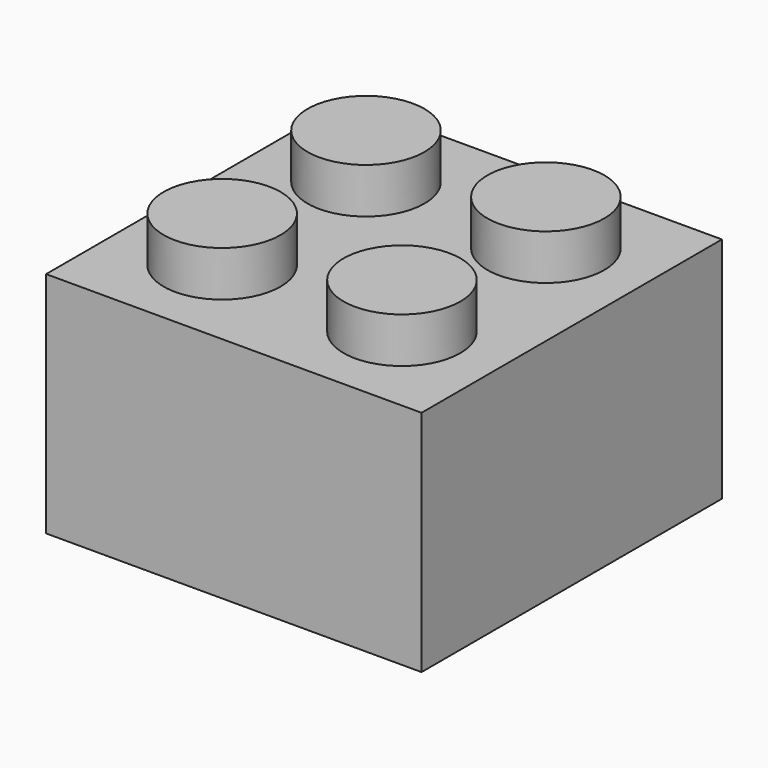
from build123d import *

# Parameters (mm, degrees)
F0_W      = 15.748
F0_H      = 15.748
F1_DEPTH  = 9.5758
F2_R      = 2.4511
F4_DEPTH  = 1.905
F3_R      = 2.4511
F5_DEPTH  = 1.905
F6_R      = 2.4511
F7_DEPTH  = 1.905
F8_W      = 13.2842
F8_H      = 14.089584
F9_DEPTH  = 7.62
F10_R     = 3.2385
F11_DEPTH = 7.62


with BuildPart() as f1:
    # F0 (on Top) → F1 (new body)
    with BuildSketch(Plane.XY):
        Rectangle(F0_W, F0_H)
    extrude(amount=F1_DEPTH)

    # F2 (on face) → F4 (join)
    with BuildSketch(Plane.XY.offset(9.5758)):
        with Locations((-3.7719, 3.7719)):
            Circle(F2_R)
    extrude(amount=F4_DEPTH)

    # F3 (on face) → F5 (join)
    with BuildSketch(Plane.XY.offset(9.5758)):
        with Locations((-3.7719, -3.7719)):
            Circle(F3_R)
    extrude(amount=F5_DEPTH)

    # F6 (on face) → F7 (join)
    with BuildSketch(Plane.XY.offset(9.5758)):
        with Locations((3.7719, 3.7719)):
            Circle(F6_R)
        with Locations((3.7719, -3.7719)):
            Circle(F6_R)
    extrude(amount=F7_DEPTH)

    # F8 (on face) → F9 (cut)
    with BuildSketch(Plane(origin=(0, 0, 0), x_dir=(1, 0, 0), z_dir=(0, 0, -1))):
        Rectangle(F8_W, F8_H)
    extrude(amount=-F9_DEPTH, mode=Mode.SUBTRACT)

    # F10 (on face) → F11 (join)
    with BuildSketch(Plane(origin=(0, 0, 7.62), x_dir=(1, 0, 0), z_dir=(0, 0, -1))):
        Circle(F10_R)
    extrude(amount=F11_DEPTH)


solid = f1.part
